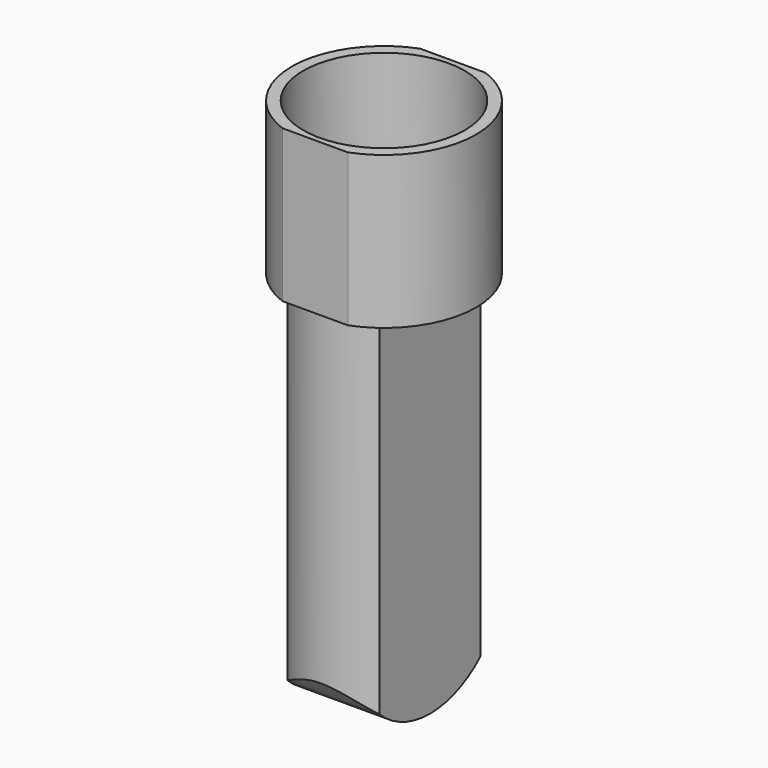
from build123d import *

# Parameters (mm, degrees)
F1_DEPTH = 38
F2_R     = 20.15
F3_DEPTH = 26
F5_DEPTH = 93
F7_DEPTH = 34.501


with BuildPart() as f1:
    # F0 (on Top) → F1 (new body)
    with BuildSketch(Plane.XY):
        with BuildLine():
            Line((-8.170067, -21.5), (8.170067, -21.5))
            ThreePointArc((8.170067, -21.5), (23, 0), (8.170067, 21.5))
            Line((8.170067, 21.5), (-8.170067, 21.5))
            ThreePointArc((-8.170067, 21.5), (-23, 0), (-8.170067, -21.5))
        make_face()
    extrude(amount=F1_DEPTH)

    # F2 (on face) → F3 (cut)
    with BuildSketch(Plane.XY.offset(38)):
        Circle(F2_R)
    extrude(amount=-F3_DEPTH, mode=Mode.SUBTRACT)

    # F4 (on face) → F5 (join)
    with BuildSketch(Plane(origin=(0, 0, 0), x_dir=(1, 0, 0), z_dir=(0, 0, -1))):
        with BuildLine():
            Line((-11.5, 15.748016), (-11.5, -15.748016))
            ThreePointArc((-11.5, -15.748016), (0, -19.5), (11.5, -15.748016))
            Line((11.5, -15.748016), (11.5, 15.748016))
            ThreePointArc((11.5, 15.748016), (0, 19.5), (-11.5, 15.748016))
        make_face()
    extrude(amount=F5_DEPTH)

    # F6 (on face) → F7 (cut, through all)
    with BuildSketch(Plane(origin=(-11.5, 0, 0), x_dir=(0, -1, 0), z_dir=(-1, 0, 0))):
        with BuildLine():
            Line((32.339312, -99.336967), (19.695096, -81.878686))
            ThreePointArc((19.695096, -81.878686), (17.889042, -84.456216), (15.748016, -86.763055))
            Line((15.748016, -86.763055), (15.748016, -93))
            Line((15.748016, -93), (0, -93))
            Line((0, -93), (-15.748016, -93))
            Line((-15.748016, -93), (-15.748016, -86.763055))
            ThreePointArc((-15.748016, -86.763055), (-17.709897, -84.675133), (-19.396978, -82.3595))
            Line((-19.396978, -82.3595), (-29.574744, -99.336967))
            Line((-29.574744, -99.336967), (32.339312, -99.336967))
        make_face()
        with BuildLine():
            Line((15.748016, -93), (15.748016, -86.763055))
            ThreePointArc((15.748016, -86.763055), (8.469054, -91.383992), (0, -93))
            Line((0, -93), (15.748016, -93))
        make_face()
        with BuildLine():
            Line((-15.748016, -93), (0, -93))
            ThreePointArc((0, -93), (-8.469054, -91.383992), (-15.748016, -86.763055))
            Line((-15.748016, -86.763055), (-15.748016, -93))
        make_face()
    extrude(amount=-F7_DEPTH, mode=Mode.SUBTRACT)


solid = f1.part
